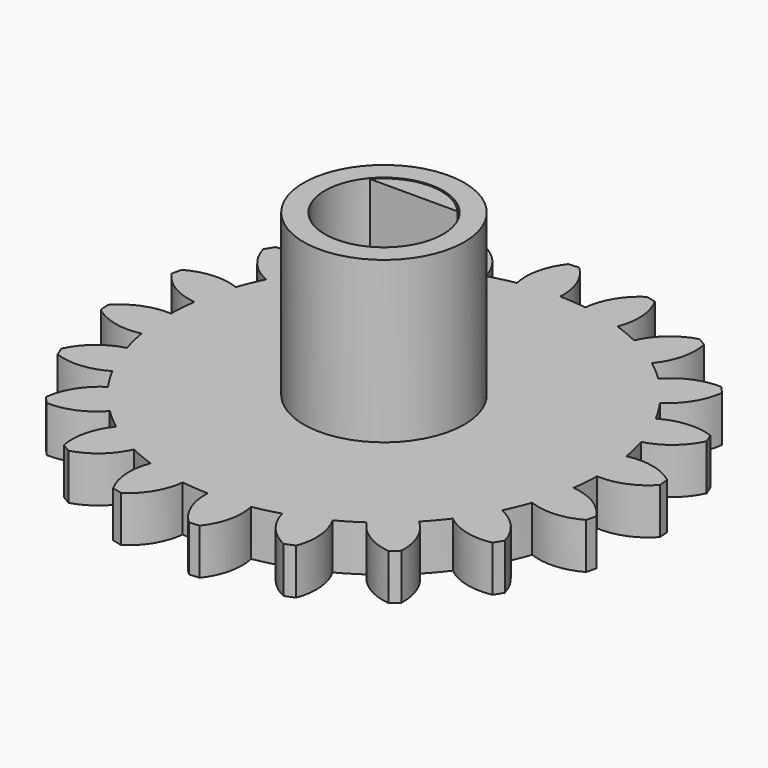
from build123d import *

# Parameters (mm, degrees)
F1_R     = 2.5
F2_DEPTH = 2
F3_R     = 3.5
F3_R_2   = 2.575
F4_DEPTH = 7


with BuildPart() as f2:
    # F1 (on Top) → F2 (new body)
    with BuildSketch(Plane.XY):
        with BuildLine():
            ThreePointArc((-1.6229776334, 9.2680599554), (-0.7382287643, 9.3800858219), (0.1531520845, 9.4078443957))
            ThreePointArc((0.1531520845, 9.4078443957), (-0.0317997207, 10.5374998224), (-0.6817601701, 11.4797736507))
            Line((-0.6817601701, 11.4797736507), (-1.1224656787, 11.4450893749))
            ThreePointArc((-1.1224656787, 11.4450893749), (-1.6170199342, 10.4127402859), (-1.6229776334, 9.2680599554))
        make_face()
        with BuildLine():
            ThreePointArc((9.4078443957, -0.1531520845), (9.4087792756, -0.0765785786), (9.4090909091, 0))
            ThreePointArc((9.4090909091, 0), (9.3737668631, 0.8145468262), (9.2680599554, 1.6229776334))
            ThreePointArc((9.2680599554, 1.6229776334), (9.1491169783, 2.1965086508), (8.9947183137, 2.7615275108))
            ThreePointArc((8.9947183137, 2.7615275108), (8.6928665104, 3.6007032045), (8.3129211438, 4.4075314852))
            ThreePointArc((8.3129211438, 4.4075314852), (8.0225688191, 4.9162364953), (7.7011265332, 5.4058895526))
            ThreePointArc((7.7011265332, 5.4058895526), (7.1547288581, 6.1107157275), (6.5440556911, 6.7606454461))
            ThreePointArc((6.5440556911, 6.7606454461), (6.1107157275, 7.1547288581), (5.6536948308, 7.52108546))
            ThreePointArc((5.6536948308, 7.52108546), (4.9162364953, 8.0225688191), (4.1346124722, 8.4519803265))
            ThreePointArc((4.1346124722, 8.4519803265), (3.6007032045, 8.6928665104), (3.0528400867, 8.90006512))
            ThreePointArc((3.0528400867, 8.90006512), (2.1965086508, 9.1491169783), (1.320444577, 9.3159764842))
            ThreePointArc((1.320444577, 9.3159764842), (0.7382287643, 9.3800858219), (0.1531520845, 9.4078443957))
            ThreePointArc((0.1531520845, 9.4078443957), (-0.7382287643, 9.3800858219), (-1.6229776334, 9.2680599554))
            ThreePointArc((-1.6229776334, 9.2680599554), (-2.1965086508, 9.1491169783), (-2.7615275108, 8.9947183137))
            ThreePointArc((-2.7615275108, 8.9947183137), (-3.6007032045, 8.6928665104), (-4.4075314852, 8.3129211438))
            ThreePointArc((-4.4075314852, 8.3129211438), (-4.9162364953, 8.0225688191), (-5.4058895526, 7.7011265332))
            ThreePointArc((-5.4058895526, 7.7011265332), (-6.1107157275, 7.1547288581), (-6.7606454461, 6.5440556911))
            ThreePointArc((-6.7606454461, 6.5440556911), (-7.1547288581, 6.1107157275), (-7.52108546, 5.6536948308))
            ThreePointArc((-7.52108546, 5.6536948308), (-8.0225688191, 4.9162364953), (-8.4519803265, 4.1346124722))
            ThreePointArc((-8.4519803265, 4.1346124722), (-8.6928665104, 3.6007032045), (-8.90006512, 3.0528400867))
            ThreePointArc((-8.90006512, 3.0528400867), (-9.1491169783, 2.1965086508), (-9.3159764842, 1.320444577))
            ThreePointArc((-9.3159764842, 1.320444577), (-9.3800858219, 0.7382287643), (-9.4078443957, 0.1531520845))
            ThreePointArc((-9.4078443957, 0.1531520845), (-9.3800858219, -0.7382287643), (-9.2680599554, -1.6229776334))
            ThreePointArc((-9.2680599554, -1.6229776334), (-9.1491169783, -2.1965086508), (-8.9947183137, -2.7615275108))
            ThreePointArc((-8.9947183137, -2.7615275108), (-8.6928665104, -3.6007032045), (-8.3129211438, -4.4075314852))
            ThreePointArc((-8.3129211438, -4.4075314852), (-8.0225688191, -4.9162364953), (-7.7011265332, -5.4058895526))
            ThreePointArc((-7.7011265332, -5.4058895526), (-7.1547288581, -6.1107157275), (-6.5440556911, -6.7606454461))
            ThreePointArc((-6.5440556911, -6.7606454461), (-6.1107157275, -7.1547288581), (-5.6536948308, -7.52108546))
            ThreePointArc((-5.6536948308, -7.52108546), (-4.9162364953, -8.0225688191), (-4.1346124722, -8.4519803265))
            ThreePointArc((-4.1346124722, -8.4519803265), (-3.6007032045, -8.6928665104), (-3.0528400867, -8.90006512))
            ThreePointArc((-3.0528400867, -8.90006512), (-2.1965086508, -9.1491169783), (-1.320444577, -9.3159764842))
            ThreePointArc((-1.320444577, -9.3159764842), (-0.7382287643, -9.3800858219), (-0.1531520845, -9.4078443957))
            ThreePointArc((-0.1531520845, -9.4078443957), (0.7382287643, -9.3800858219), (1.6229776334, -9.2680599554))
            ThreePointArc((1.6229776334, -9.2680599554), (2.1965086508, -9.1491169783), (2.7615275108, -8.9947183137))
            ThreePointArc((2.7615275108, -8.9947183137), (3.6007032045, -8.6928665104), (4.4075314852, -8.3129211438))
            ThreePointArc((4.4075314852, -8.3129211438), (4.9162364953, -8.0225688191), (5.4058895526, -7.7011265332))
            ThreePointArc((5.4058895526, -7.7011265332), (6.1107157275, -7.1547288581), (6.7606454461, -6.5440556911))
            ThreePointArc((6.7606454461, -6.5440556911), (7.1547288581, -6.1107157275), (7.52108546, -5.6536948308))
            ThreePointArc((7.52108546, -5.6536948308), (8.0225688191, -4.9162364953), (8.4519803265, -4.1346124722))
            ThreePointArc((8.4519803265, -4.1346124722), (8.6928665104, -3.6007032045), (8.90006512, -3.0528400867))
            ThreePointArc((8.90006512, -3.0528400867), (9.1491169783, -2.1965086508), (9.3159764842, -1.320444577))
            ThreePointArc((9.3159764842, -1.320444577), (9.3800858219, -0.7382287643), (9.4078443957, -0.1531520845))
        make_face()
        Circle(F1_R, mode=Mode.SUBTRACT)
        with BuildLine():
            ThreePointArc((-4.4075314852, 8.3129211438), (-3.6007032045, 8.6928665104), (-2.7615275108, 8.9947183137))
            ThreePointArc((-2.7615275108, 8.9947183137), (-3.286509855, 10.0119312174), (-4.195837602, 10.7072380574))
            Line((-4.195837602, 10.7072380574), (-4.604255417, 10.5380658593))
            ThreePointArc((-4.604255417, 10.5380658593), (-4.7555910517, 9.4034178615), (-4.4075314852, 8.3129211438))
        make_face()
        with BuildLine():
            ThreePointArc((-6.7606454461, 6.5440556911), (-6.1107157275, 7.1547288581), (-5.4058895526, 7.7011265332))
            ThreePointArc((-5.4058895526, 7.7011265332), (-6.2195135061, 8.5063250277), (-7.2991972152, 8.8866034014))
            Line((-7.2991972152, 8.8866034014), (-7.6353485554, 8.5995030343))
            ThreePointArc((-7.6353485554, 8.5995030343), (-7.428651783, 7.4736233793), (-6.7606454461, 6.5440556911))
        make_face()
        with BuildLine():
            ThreePointArc((-8.4519803265, 4.1346124722), (-8.0225688191, 4.9162364953), (-7.52108546, 5.6536948308))
            ThreePointArc((-7.52108546, 5.6536948308), (-8.5437078414, 6.1680604771), (-9.6880605486, 6.1960860878))
            Line((-9.6880605486, 6.1960860878), (-9.9190405786, 5.8191609361))
            ThreePointArc((-9.9190405786, 5.8191609361), (-9.3745443193, 4.812258569), (-8.4519803265, 4.1346124722))
        make_face()
        with BuildLine():
            ThreePointArc((-9.3159764842, 1.320444577), (-9.1491169783, 2.1965086508), (-8.90006512, 3.0528400867))
            ThreePointArc((-8.90006512, 3.0528400867), (-10.0315845257, 3.2260231917), (-11.1285890147, 2.8990526973))
            Line((-11.1285890147, 2.8990526973), (-11.2317877999, 2.469198821))
            ThreePointArc((-11.2317877999, 2.469198821), (-10.4027911413, 1.679836361), (-9.3159764842, 1.320444577))
        make_face()
        with BuildLine():
            ThreePointArc((-9.2680599554, -1.6229776334), (-9.3800858219, -0.7382287643), (-9.4078443957, 0.1531520845))
            ThreePointArc((-9.4078443957, 0.1531520845), (-10.5374998224, -0.0317997207), (-11.4797736507, -0.6817601701))
            Line((-11.4797736507, -0.6817601701), (-11.4450893749, -1.1224656787))
            ThreePointArc((-11.4450893749, -1.1224656787), (-10.4127402859, -1.6170199342), (-9.2680599554, -1.6229776334))
        make_face()
        with BuildLine():
            ThreePointArc((-10.5380658593, -4.604255417), (-9.4034178615, -4.7555910517), (-8.3129211438, -4.4075314852))
            ThreePointArc((-8.3129211438, -4.4075314852), (-8.6928665104, -3.6007032045), (-8.9947183137, -2.7615275108))
            ThreePointArc((-8.9947183137, -2.7615275108), (-10.0119312174, -3.286509855), (-10.7072380574, -4.195837602))
            Line((-10.7072380574, -4.195837602), (-10.5380658593, -4.604255417))
        make_face()
        with BuildLine():
            ThreePointArc((-8.5995030343, -7.6353485554), (-7.4736233793, -7.428651783), (-6.5440556911, -6.7606454461))
            ThreePointArc((-6.5440556911, -6.7606454461), (-7.1547288581, -6.1107157275), (-7.7011265332, -5.4058895526))
            ThreePointArc((-7.7011265332, -5.4058895526), (-8.5063250277, -6.2195135061), (-8.8866034014, -7.2991972152))
            Line((-8.8866034014, -7.2991972152), (-8.5995030343, -7.6353485554))
        make_face()
        with BuildLine():
            ThreePointArc((-5.8191609361, -9.9190405786), (-4.812258569, -9.3745443193), (-4.1346124722, -8.4519803265))
            ThreePointArc((-4.1346124722, -8.4519803265), (-4.9162364953, -8.0225688191), (-5.6536948308, -7.52108546))
            ThreePointArc((-5.6536948308, -7.52108546), (-6.1680604771, -8.5437078414), (-6.1960860878, -9.6880605486))
            Line((-6.1960860878, -9.6880605486), (-5.8191609361, -9.9190405786))
        make_face()
        with BuildLine():
            ThreePointArc((-2.469198821, -11.2317877999), (-1.679836361, -10.4027911413), (-1.320444577, -9.3159764842))
            ThreePointArc((-1.320444577, -9.3159764842), (-2.1965086508, -9.1491169783), (-3.0528400867, -8.90006512))
            ThreePointArc((-3.0528400867, -8.90006512), (-3.2260231917, -10.0315845257), (-2.8990526973, -11.1285890147))
            Line((-2.8990526973, -11.1285890147), (-2.469198821, -11.2317877999))
        make_face()
        with BuildLine():
            ThreePointArc((1.1224656787, -11.4450893749), (1.6170199342, -10.4127402859), (1.6229776334, -9.2680599554))
            ThreePointArc((1.6229776334, -9.2680599554), (0.7382287643, -9.3800858219), (-0.1531520845, -9.4078443957))
            ThreePointArc((-0.1531520845, -9.4078443957), (0.0317997207, -10.5374998224), (0.6817601701, -11.4797736507))
            Line((0.6817601701, -11.4797736507), (1.1224656787, -11.4450893749))
        make_face()
        with BuildLine():
            ThreePointArc((4.604255417, -10.5380658593), (4.7555910517, -9.4034178615), (4.4075314852, -8.3129211438))
            ThreePointArc((4.4075314852, -8.3129211438), (3.6007032045, -8.6928665104), (2.7615275108, -8.9947183137))
            ThreePointArc((2.7615275108, -8.9947183137), (3.286509855, -10.0119312174), (4.195837602, -10.7072380574))
            Line((4.195837602, -10.7072380574), (4.604255417, -10.5380658593))
        make_face()
        with BuildLine():
            ThreePointArc((7.6353485554, -8.5995030343), (7.428651783, -7.4736233793), (6.7606454461, -6.5440556911))
            ThreePointArc((6.7606454461, -6.5440556911), (6.1107157275, -7.1547288581), (5.4058895526, -7.7011265332))
            ThreePointArc((5.4058895526, -7.7011265332), (6.2195135061, -8.5063250277), (7.2991972152, -8.8866034014))
            Line((7.2991972152, -8.8866034014), (7.6353485554, -8.5995030343))
        make_face()
        with BuildLine():
            ThreePointArc((9.9190405786, -5.8191609361), (9.3745443193, -4.812258569), (8.4519803265, -4.1346124722))
            ThreePointArc((8.4519803265, -4.1346124722), (8.0225688191, -4.9162364953), (7.52108546, -5.6536948308))
            ThreePointArc((7.52108546, -5.6536948308), (8.5437078414, -6.1680604771), (9.6880605486, -6.1960860878))
            Line((9.6880605486, -6.1960860878), (9.9190405786, -5.8191609361))
        make_face()
        with BuildLine():
            ThreePointArc((11.2317877999, -2.469198821), (10.4027911413, -1.679836361), (9.3159764842, -1.320444577))
            ThreePointArc((9.3159764842, -1.320444577), (9.1491169783, -2.1965086508), (8.90006512, -3.0528400867))
            ThreePointArc((8.90006512, -3.0528400867), (10.0315845257, -3.2260231917), (11.1285890147, -2.8990526973))
            Line((11.1285890147, -2.8990526973), (11.2317877999, -2.469198821))
        make_face()
        with BuildLine():
            ThreePointArc((9.2680599554, 1.6229776334), (9.3737668631, 0.8145468262), (9.4090909091, 0))
            ThreePointArc((9.4090909091, 0), (9.4087792756, -0.0765785786), (9.4078443957, -0.1531520845))
            ThreePointArc((9.4078443957, -0.1531520845), (10.5374998224, 0.0317997207), (11.4797736507, 0.6817601701))
            Line((11.4797736507, 0.6817601701), (11.4450893749, 1.1224656787))
            ThreePointArc((11.4450893749, 1.1224656787), (10.4127402859, 1.6170199342), (9.2680599554, 1.6229776334))
        make_face()
        with BuildLine():
            ThreePointArc((8.3129211438, 4.4075314852), (8.6928665104, 3.6007032045), (8.9947183137, 2.7615275108))
            ThreePointArc((8.9947183137, 2.7615275108), (10.0119312174, 3.286509855), (10.7072380574, 4.195837602))
            Line((10.7072380574, 4.195837602), (10.5380658593, 4.604255417))
            ThreePointArc((10.5380658593, 4.604255417), (9.4034178615, 4.7555910517), (8.3129211438, 4.4075314852))
        make_face()
        with BuildLine():
            ThreePointArc((6.5440556911, 6.7606454461), (7.1547288581, 6.1107157275), (7.7011265332, 5.4058895526))
            ThreePointArc((7.7011265332, 5.4058895526), (8.5063250277, 6.2195135061), (8.8866034014, 7.2991972152))
            Line((8.8866034014, 7.2991972152), (8.5995030343, 7.6353485554))
            ThreePointArc((8.5995030343, 7.6353485554), (7.4736233793, 7.428651783), (6.5440556911, 6.7606454461))
        make_face()
        with BuildLine():
            ThreePointArc((4.1346124722, 8.4519803265), (4.9162364953, 8.0225688191), (5.6536948308, 7.52108546))
            ThreePointArc((5.6536948308, 7.52108546), (6.1680604771, 8.5437078414), (6.1960860878, 9.6880605486))
            Line((6.1960860878, 9.6880605486), (5.8191609361, 9.9190405786))
            ThreePointArc((5.8191609361, 9.9190405786), (4.812258569, 9.3745443193), (4.1346124722, 8.4519803265))
        make_face()
        with BuildLine():
            ThreePointArc((1.320444577, 9.3159764842), (2.1965086508, 9.1491169783), (3.0528400867, 8.90006512))
            ThreePointArc((3.0528400867, 8.90006512), (3.2260231917, 10.0315845257), (2.8990526973, 11.1285890147))
            Line((2.8990526973, 11.1285890147), (2.469198821, 11.2317877999))
            ThreePointArc((2.469198821, 11.2317877999), (1.679836361, 10.4027911413), (1.320444577, 9.3159764842))
        make_face()
    extrude(amount=F2_DEPTH)

    # F3 (on face) → F4 (join)
    with BuildSketch(Plane.XY.offset(2)):
        Circle(F3_R)
        Circle(F3_R_2, mode=Mode.SUBTRACT)
        with BuildLine():
            ThreePointArc((1.8998355192, 1.625), (0, 2.5), (-1.8998355192, 1.625))
            Line((-1.8998355192, 1.625), (1.8998355192, 1.625))
        make_face()
    extrude(amount=F4_DEPTH)


solid = f2.part
